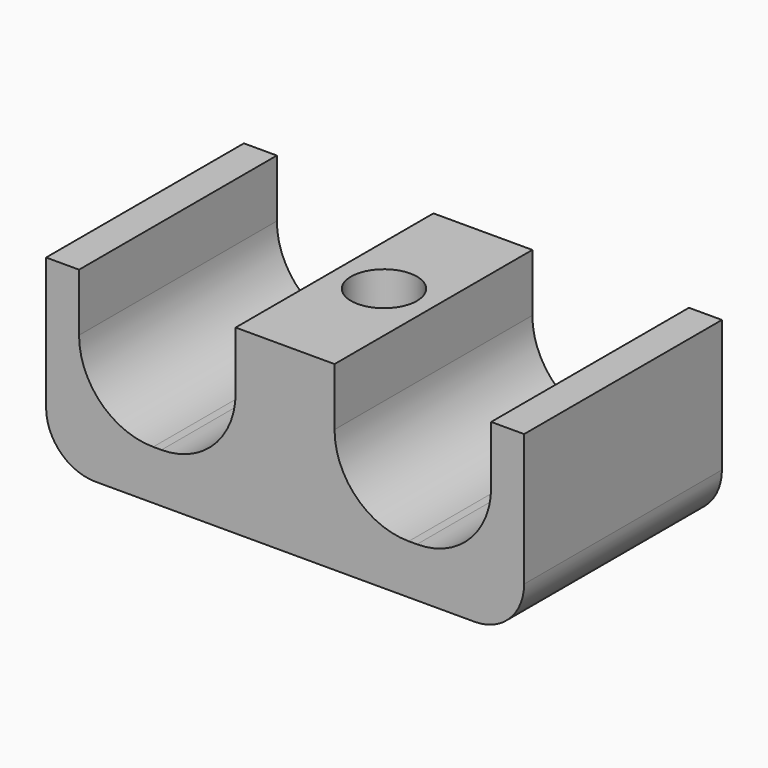
from build123d import *

# Parameters (mm, degrees)
SKETCH_W      = 29
SKETCH_H      = 15
PAD_DEPTH     = 3
SKETCH001_W   = 2
SKETCH001_H   = 15
SKETCH001_W_2 = 6
PAD001_DEPTH  = 8
FILLET_R      = 4.5
SKETCH002_R   = 2
POCKET_DEPTH  = 11.001
CHAMFER_SIZE  = 2.5
FILLET001_R   = 2.99


with BuildPart() as part:
    # Sketch → Pad (new body)
    with BuildSketch(Plane.XY):
        with Locations((14.5, 7.5)):
            Rectangle(SKETCH_W, SKETCH_H)
    extrude(amount=PAD_DEPTH)

    # Sketch001 (on Face6 of Pad) → Pad001 (join)
    with BuildSketch(Plane.XY.offset(3)):
        with Locations((1, 7.5)):
            Rectangle(SKETCH001_W, SKETCH001_H)
        with Locations((14.5, 7.5)):
            Rectangle(SKETCH001_W_2, SKETCH001_H)
        with Locations((28, 7.5)):
            Rectangle(SKETCH001_W, SKETCH001_H)
    extrude(amount=PAD001_DEPTH)

    # Fillet
    fillet_edges = [part.edges().sort_by_distance(p)[0] for p in [
        (2, 7.5, 3),
        (11.5, 7.5, 3),
        (17.5, 7.5, 3),
        (27, 7.5, 3),
    ]]
    fillet(fillet_edges, radius=FILLET_R)

    # Sketch002 (on Face6 of Fillet) → Pocket (cut, through all)
    with BuildSketch(Plane(origin=(0, 0, 0), x_dir=(1, 0, 0), z_dir=(0, 0, -1))):
        with Locations((14.5, -7.5)):
            Circle(SKETCH002_R)
    extrude(amount=-POCKET_DEPTH, mode=Mode.SUBTRACT)

    # Chamfer
    chamfer_edges = [part.edges().sort_by_distance(p)[0] for p in [
        (12.5, 7.5, 0),
    ]]
    chamfer(chamfer_edges, length=CHAMFER_SIZE)

    # Fillet001
    fillet001_edges = [part.edges().sort_by_distance(p)[0] for p in [
        (0, 7.5, 0),
        (29, 7.5, 0),
    ]]
    fillet(fillet001_edges, radius=FILLET001_R)


solid = part.part
